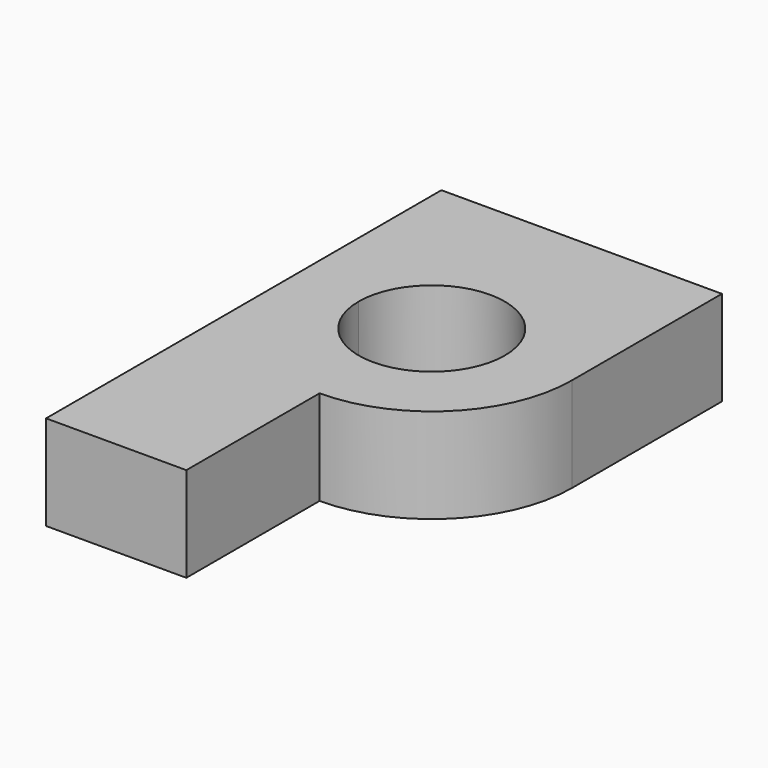
from build123d import *

# Parameters (mm, degrees)
F1_DEPTH = 6.35
F2_DEPTH = 7.62


with BuildPart() as f1:
    # F0 (on Top) → F1 (new body)
    with BuildSketch(Plane.XY):
        with BuildLine():
            ThreePointArc((-6.4505888149, 13.3851745337), (-14.4239508751, 16.6878492367), (-17.7266255781, 24.6612112969))
            Line((-17.7266255781, 24.6612112969), (-17.7266255781, 0))
            Line((-17.7266255781, 0), (-6.4505888149, 0))
            Line((-6.4505888149, 0), (-6.4505888149, 13.3851745337))
        make_face()
    extrude(amount=F1_DEPTH)

    # F0 (on Top) → F2 (join)
    with BuildSketch(Plane.XY):
        with BuildLine():
            ThreePointArc((4.8254479483, 24.6612112969), (-6.4505888149, 35.9372480601), (-17.7266255781, 24.6612112969))
            Line((-17.7266255781, 24.6612112969), (-12.3252461516, 24.6612112969))
            ThreePointArc((-12.3252461516, 24.6612112969), (-6.4505888149, 30.5358686336), (-0.5759314782, 24.6612112969))
            Line((-0.5759314782, 24.6612112969), (4.8254479483, 24.6612112969))
        make_face()
        with BuildLine():
            ThreePointArc((-6.4505888149, 13.3851745337), (-14.4239508751, 16.6878492367), (-17.7266255781, 24.6612112969))
            Line((-17.7266255781, 24.6612112969), (-17.7266255781, 0))
            Line((-17.7266255781, 0), (-6.4505888149, 0))
            Line((-6.4505888149, 0), (-6.4505888149, 13.3851745337))
        make_face()
        with BuildLine():
            Line((-17.7266255781, 39.7244989872), (-17.7266255781, 24.6612112969))
            ThreePointArc((-17.7266255781, 24.6612112969), (-6.4505888149, 35.9372480601), (4.8254479483, 24.6612112969))
            Line((4.8254479483, 24.6612112969), (4.8254479483, 39.7244989872))
            Line((4.8254479483, 39.7244989872), (-17.7266255781, 39.7244989872))
        make_face()
        with BuildLine():
            Line((-12.3252461516, 24.6612112969), (-17.7266255781, 24.6612112969))
            ThreePointArc((-17.7266255781, 24.6612112969), (-14.4239508751, 16.6878492367), (-6.4505888149, 13.3851745337))
            Line((-6.4505888149, 13.3851745337), (-6.4505888149, 18.7865539602))
            ThreePointArc((-6.4505888149, 18.7865539602), (-10.6045988548, 20.507201257), (-12.3252461516, 24.6612112969))
        make_face()
        with BuildLine():
            ThreePointArc((-6.4505888149, 13.3851745337), (1.5227732453, 16.6878492367), (4.8254479483, 24.6612112969))
            Line((4.8254479483, 24.6612112969), (-0.5759314782, 24.6612112969))
            ThreePointArc((-0.5759314782, 24.6612112969), (-2.296578775, 20.507201257), (-6.4505888149, 18.7865539602))
            Line((-6.4505888149, 18.7865539602), (-6.4505888149, 13.3851745337))
        make_face()
    extrude(amount=F2_DEPTH)


solid = f1.part
